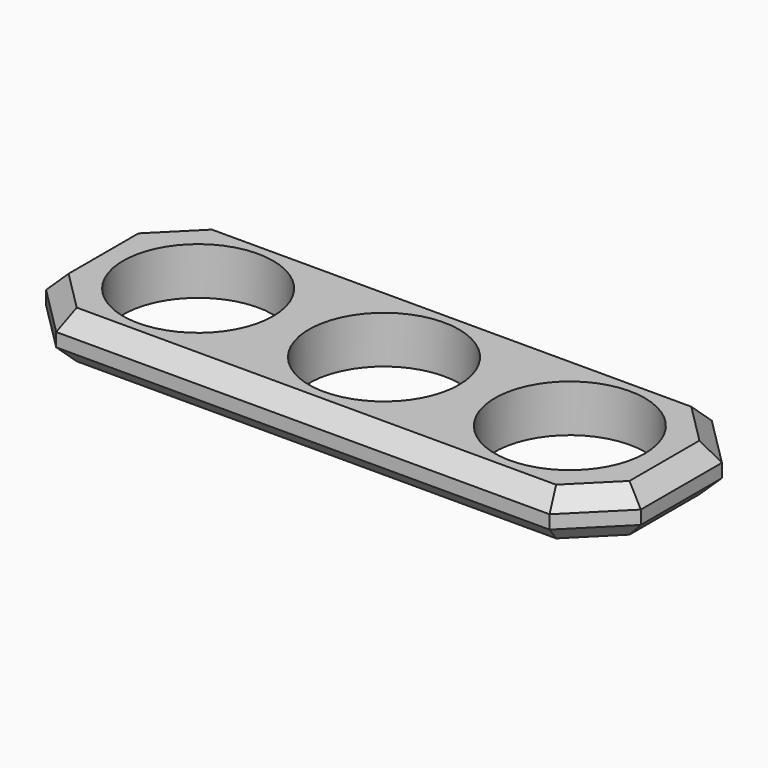
from build123d import *

# Parameters (mm, degrees)
F0_W     = 88
F0_H     = 30
F0_R     = 11.1
F1_DEPTH = 7
F2_SIZE  = 7.5
F3_SIZE  = 2.5


with BuildPart() as f1:
    # F0 (on Top) → F1 (new body)
    with BuildSketch(Plane.XY):
        Rectangle(F0_W, F0_H)
        with Locations((-27.5, 0)):
            Circle(F0_R, mode=Mode.SUBTRACT)
        Circle(F0_R, mode=Mode.SUBTRACT)
        with Locations((27.5, 0)):
            Circle(F0_R, mode=Mode.SUBTRACT)
    extrude(amount=F1_DEPTH)

    # F2
    f2_edges = [f1.edges().sort_by_distance(p)[0] for p in [
        (-44, -15, 3.5),
        (-44, 15, 3.5),
        (44, 15, 3.5),
        (44, -15, 3.5),
    ]]
    chamfer(f2_edges, length=F2_SIZE)

    # F3
    f3_edges = [f1.edges().sort_by_distance(p)[0] for p in [
        (0, 15, 7),
        (-40.25, 11.25, 7),
        (-44, 0, 7),
        (-40.25, -11.25, 7),
        (0, -15, 7),
        (40.25, -11.25, 7),
        (44, 0, 7),
        (40.25, 11.25, 7),
        (0, 15, 0),
        (-40.25, 11.25, 0),
        (-44, 0, 0),
        (-40.25, -11.25, 0),
        (0, -15, 0),
        (40.25, -11.25, 0),
        (44, 0, 0),
        (40.25, 11.25, 0),
    ]]
    chamfer(f3_edges, length=F3_SIZE)


solid = f1.part
